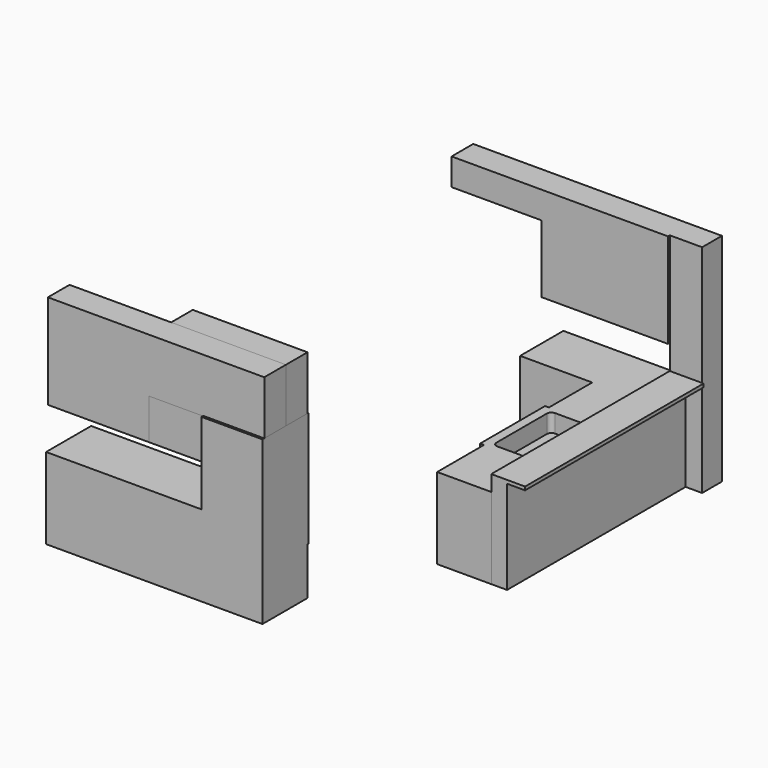
from build123d import *

# Parameters (mm, degrees)
F0_W      = 609.6
F0_H      = 609.6
F0_H_2    = 914.4
F0_W_2    = 43.7054136276
F0_H_3    = 660.4
F1_DEPTH  = 914.4
F2_W      = 203.2
F2_H      = 38.1
F3_DEPTH  = 2514.6
F4_W      = 364.2358757019
F4_H      = 278.9609730244
F5_DEPTH  = 2438.4
F7_DEPTH  = 203.2
F8_W      = 2438.4
F8_H      = 609.6
F9_DEPTH  = 914.4
F10_W     = 1016
F10_H     = 304.8
F11_DEPTH = 304.8
F12_W     = 688.975
F12_H     = 917.575
F12_H_2   = 381
F13_DEPTH = 622.3
F14_W     = 688.975
F14_H     = 606.425
F15_DEPTH = 304.8
F16_W     = 609.6
F16_H     = 457.2
F17_DEPTH = 635
F19_DEPTH = 304.8
F20_DEPTH = 25.4


with BuildPart() as f1:
    # F0 (on Top) → F1 (new body)
    with BuildSketch(Plane.XY):
        Polygon((1422.4, 0), (0, 0), (0, -609.6), (812.8, -609.6), (1422.4, -609.6), align=None)
        with Locations((1117.6, -914.4)):
            Rectangle(F0_W, F0_H)
        with Locations((1117.6, -1676.4)):
            Rectangle(F0_W, F0_H_2)
        with Locations((790.9472931862, -1676.4)):
            Rectangle(F0_W_2, F0_H_2)
        with Locations((1117.6, -2463.8)):
            Rectangle(F0_W, F0_H_3)
    extrude(amount=F1_DEPTH)

    # F4 (on face) → F5 (join)
    with BuildSketch(Plane(origin=(0, 0, 0), x_dir=(1, 0, 0), z_dir=(0, 0, -1))):
        with Locations((1604.517937851, 139.4804865122)):
            Rectangle(F4_W, F4_H)
    extrude(amount=-F5_DEPTH)

    # F6 (on face) → F7 (cut)
    with BuildSketch(Plane.XY.offset(914.4)):
        with BuildLine():
            Line((1320.8, -1270), (921.4945863724, -1270))
            ThreePointArc((921.4945863724, -1270), (885.5735618881, -1284.8789755157), (870.6945863724, -1320.8))
            Line((870.6945863724, -1320.8), (870.6945863724, -2032))
            ThreePointArc((870.6945863724, -2032), (885.5735618881, -2067.9210244843), (921.4945863724, -2082.8))
            Line((921.4945863724, -2082.8), (1320.8, -2082.8))
            ThreePointArc((1320.8, -2082.8), (1356.7210244843, -2067.9210244843), (1371.6, -2032))
            Line((1371.6, -2032), (1371.6, -1320.8))
            ThreePointArc((1371.6, -1320.8), (1356.7210244843, -1284.8789755157), (1320.8, -1270))
        make_face()
    extrude(amount=-F7_DEPTH, mode=Mode.SUBTRACT)

    # F10 (on face) → F11 (join)
    with BuildSketch(Plane(origin=(0, 0, 0), x_dir=(-1, 0, 0), z_dir=(0, 1, 0))):
        Polygon((-1422.4, 2438.4), (-1422.4, 1371.6), (0, 1371.6), (0, 2133.6), (0, 2438.4), align=None)
        with Locations((508, 2286)):
            Rectangle(F10_W, F10_H)
    extrude(amount=-F11_DEPTH)


with BuildPart() as f3:
    # F2 (on face) → F3 (new body)
    with BuildSketch(Plane.XZ.offset(2794)):
        Polygon((1422.4, 914.4), (1422.4, 0), (1600.2, 0), (1600.2, 1054.1), (1600.2, 1092.2), (1422.4, 1092.2), align=None)
        with Locations((1701.8, 1073.15)):
            Rectangle(F2_W, F2_H)
    extrude(amount=-F3_DEPTH)


with BuildPart() as f9:
    # F8 (on face) → F9 (new body)
    with BuildSketch(Plane.XY.offset(914.4)):
        with Locations((-893.644452095, -4315.7834364895)):
            Rectangle(F8_W, F8_H)
    extrude(amount=-F9_DEPTH)

    # F12 (on face) → F13 (join)
    with BuildSketch(Plane.XZ.offset(4620.5834364895)):
        with Locations((-18.931952095, 1373.1875)):
            Rectangle(F12_W, F12_H)
        with Locations((-18.931952095, 723.9)):
            Rectangle(F12_W, F12_H_2)
    extrude(amount=-F13_DEPTH)

    # F20 (add): a face of the model
    f20_faces = [f9.faces().sort_by_distance(p)[0] for p in [
        (-700.4199903624, -4620.5834364895, 659.5421314332),
    ]]
    extrude(f20_faces, amount=F20_DEPTH)


with BuildPart() as f15:
    # F14 (on face) → F15 (new body)
    with BuildSketch(Plane.XZ.offset(4620.5834364895)):
        Polygon((-363.419452095, 1371.6), (-363.419452095, 1831.975), (-363.419452095, 2438.4), (-2112.844452095, 2438.4), (-2112.844452095, 1371.6), align=None)
        with Locations((-18.931952095, 2135.1875)):
            Rectangle(F14_W, F14_H)
    extrude(amount=-F15_DEPTH)


with BuildPart() as f17:
    # F16 (on face) → F17 (new body)
    with BuildSketch(Plane.XZ.offset(4620.5834364895)):
        with Locations((-668.219452095, 1600.2)):
            Rectangle(F16_W, F16_H)
    extrude(amount=-F17_DEPTH)


with BuildPart() as f19:
    # F18 (on face) → F19 (new body)
    with BuildSketch(Plane(origin=(0, -4315.7834364895, 0), x_dir=(-1, 0, 0), z_dir=(0, 1, 0))):
        Polygon((-325.555547905, 2438.4), (-325.555547905, 1831.975), (363.419452095, 1831.975), (967.6747918129, 1831.975), (967.6747918129, 2438.4), align=None)
    extrude(amount=F19_DEPTH)


solid = Compound([f1.part, f3.part, f9.part, f15.part, f17.part, f19.part])
